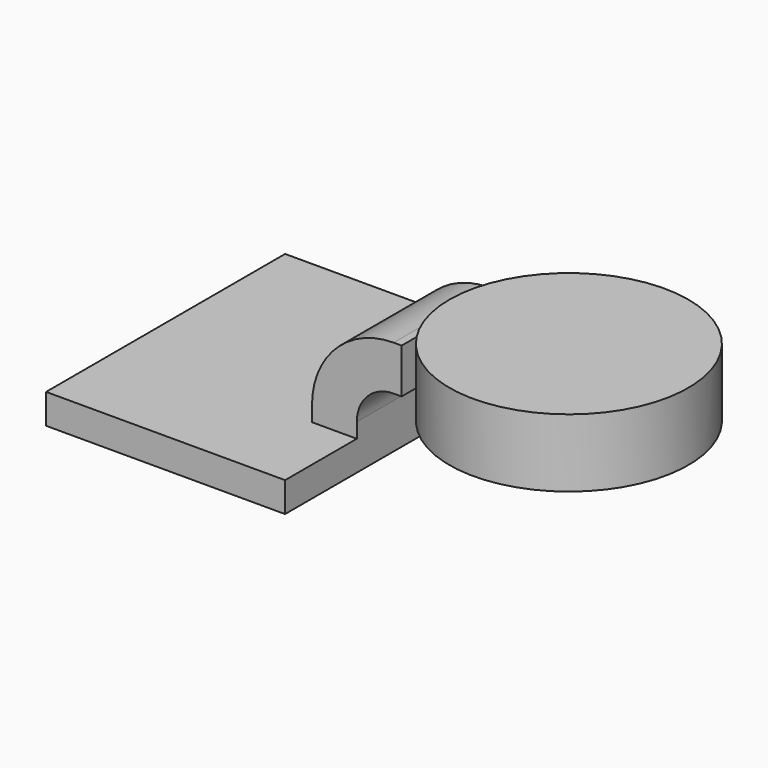
from build123d import *

# Parameters (mm, degrees)
F1_DEPTH = 63.5
F2_DEPTH = 25.4


with BuildPart() as f1:
    # F0 (on Front) → F1 (new body, symmetric)
    with BuildSketch(Plane.XZ):
        Polygon((50.8, -6.35), (50.8, 6.35), (31.75, 6.35), (-50.8, 6.35), (-50.8, -6.35), align=None)
    extrude(amount=F1_DEPTH, both=True)

    # F0 (on Front) → F2 (join, symmetric)
    with BuildSketch(Plane.XZ):
        with BuildLine():
            Line((31.75, 6.35), (50.8, 6.35))
            Line((50.8, 6.35), (50.8, 12.7))
            ThreePointArc((50.8, 12.7), (55.388588, 23.77783), (66.466418, 28.366418))
            Line((66.466418, 28.366418), (69.85, 28.366418))
            Line((69.85, 28.366418), (69.85, 47.416418))
            Line((69.85, 47.416418), (66.466418, 47.416418))
            ThreePointArc((66.466418, 47.416418), (41.918203, 37.248215), (31.75, 12.7))
            Line((31.75, 12.7), (31.75, 6.35))
        make_face()
    extrude(amount=F2_DEPTH, both=True)

    # F0 (on Front) → F3 (revolve)
    with BuildSketch(Plane.XZ):
        Polygon((69.85, 47.416418), (69.85, 28.366418), (69.85, 25.4), (120.65, 25.4), (120.65, 54.318989), (69.85, 54.318989), align=None)
    revolve(axis=Axis((120.65, 0, 39.859495), (0, 0, 1)))


solid = f1.part
